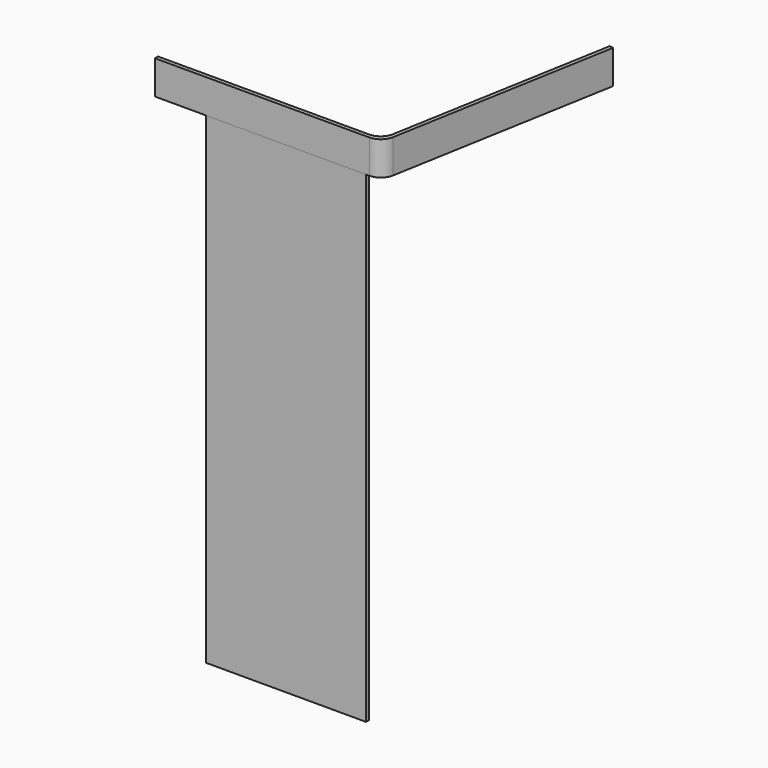
from build123d import *

# Parameters (mm, degrees)
F1_DEPTH = 70
F2_R     = 30
F3_W     = 332.263635
F3_H     = 8
F4_DEPTH = 1000


with BuildPart() as f1:
    # F0 (on Top) → F1 (new body)
    with BuildSketch(Plane.XY):
        Polygon((-470, 0), (0, 0), (86.824089, 492.403877), (78.945627, 493.793062), (-6.712797, 8), (-470, 8), align=None)
    extrude(amount=F1_DEPTH)

    # F2
    f2_edges = [f1.edges().sort_by_distance(p)[0] for p in [
        (-6.712797, 8, 35),
        (0, 0, 35),
    ]]
    fillet(f2_edges, radius=F2_R)


with BuildPart() as f4:
    # F3 (on face) → F4 (new body)
    with BuildSketch(Plane(origin=(0, 0, 0), x_dir=(1, 0, 0), z_dir=(0, 0, -1))):
        with Locations((-198.017603, -4)):
            Rectangle(F3_W, F3_H)
    extrude(amount=F4_DEPTH)


solid = Compound([f1.part, f4.part])
